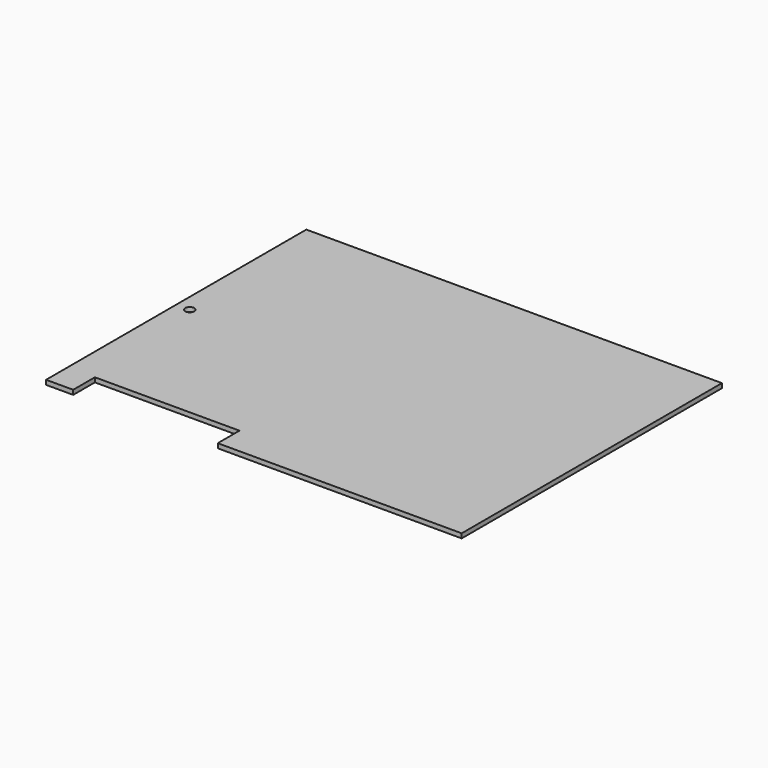
from build123d import *

# Parameters (mm, degrees)
SKETCH_W        = 460
SKETCH_H        = 360
PAD_DEPTH       = 5
SKETCH001_R     = 5
POCKET_DEPTH    = 5.001
SKETCH002_W     = 160
SKETCH002_H     = 30
POCKET001_DEPTH = 5.001


with BuildPart() as part:
    # Sketch → Pad (new body)
    with BuildSketch(Plane.XY):
        with Locations((230, 180)):
            Rectangle(SKETCH_W, SKETCH_H)
    extrude(amount=PAD_DEPTH)

    # Sketch001 (on Face6 of Pad) → Pocket (cut, through all)
    with BuildSketch(Plane.XY.offset(5)):
        with Locations((15, 180)):
            Circle(SKETCH001_R)
    extrude(amount=-POCKET_DEPTH, mode=Mode.SUBTRACT)

    # Sketch002 (on Face5 of Pocket) → Pocket001 (cut, through all)
    with BuildSketch(Plane.XY.offset(5)):
        with Locations((110, 15)):
            Rectangle(SKETCH002_W, SKETCH002_H)
    extrude(amount=-POCKET001_DEPTH, mode=Mode.SUBTRACT)


solid = part.part
